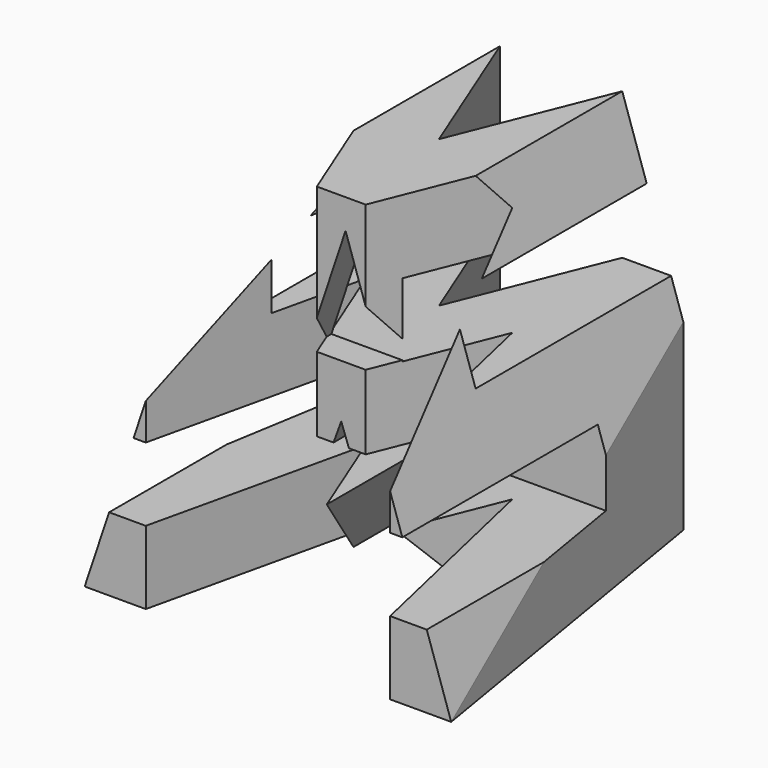
from build123d import *

# Parameters (mm, degrees)
F0_W      = 38.1
F0_H      = 38.1
F1_DEPTH  = 38.1
F5_W      = 25.4
F5_H      = 7.62
F6_DEPTH  = 38.1
F8_DEPTH  = 38.1
F10_DEPTH = 38.1


with BuildPart() as f1:
    # F0 (on Front) → F1 (new body)
    with BuildSketch(Plane.XZ):
        with Locations((19.05, 19.05)):
            Rectangle(F0_W, F0_H)
    extrude(amount=F1_DEPTH)

    # F5 (on offset) → F6 (cut)
    with BuildSketch(Plane.YZ.offset(38.1)):
        with Locations((-12.7, 26.67)):
            Rectangle(F5_W, F5_H)
        with Locations((-25.4, 11.43)):
            Rectangle(F5_W, F5_H)
    extrude(amount=-F6_DEPTH, mode=Mode.SUBTRACT)

    # F7 (on offset) → F8 (cut)
    with BuildSketch(Plane.XZ.offset(38.1)):
        Polygon((0, 38.1), (0, 0), (12.7, 38.1), align=None)
        Polygon((19.05, 17.435988), (12.7, 0), (25.4, 0), align=None)
        Polygon((23.515154, 22.983656), (19.499061, 35.031934), (15.482969, 22.983656), align=None)
        Polygon((38.1, 38.1), (25.4, 38.1), (38.1, 0), align=None)
    extrude(amount=-F8_DEPTH, mode=Mode.SUBTRACT)

    # F9 (on offset) → F10 (cut)
    with BuildSketch(Plane.XY.offset(38.1)):
        Polygon((6.35, 0), (0, 0), (0, -38.1), align=None)
        Polygon((11.43, -15.875), (6.35, -38.1), (31.75, -38.1), (26.67, -15.875), (21.59, -28.575), (16.51, -28.575), align=None)
        Polygon((25.4, 0), (12.7, 0), (19.05, -15.875), align=None)
        Polygon((38.1, 0), (31.75, 0), (38.1, -38.1), align=None)
    extrude(amount=-F10_DEPTH, mode=Mode.SUBTRACT)


solid = f1.part
